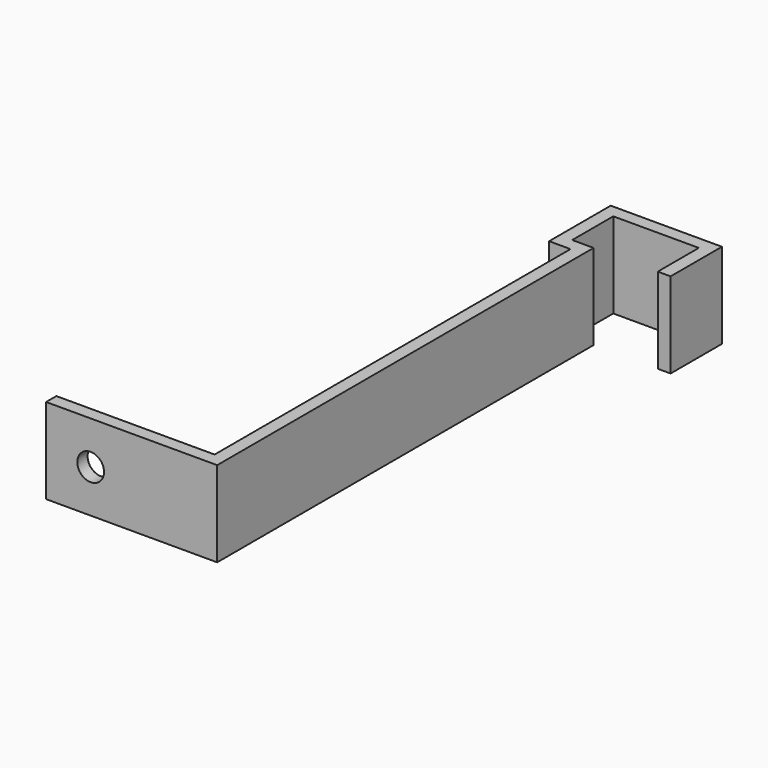
from build123d import *

# Parameters (mm, degrees)
F0_W     = 20
F0_H     = 3
F0_W_2   = 3
F0_H_2   = 12
F0_H_3   = 104
F0_W_3   = 37
F1_DEPTH = 20
F2_R     = 3.125
F3_DEPTH = 3.001


with BuildPart() as f1:
    # F0 (on Top) → F1 (new body)
    with BuildSketch(Plane.XY):
        Polygon((3, 38.470506), (0, 38.470506), (0, 35.470506), (0, 23.470506), (3, 23.470506), align=None)
        with Locations((-10, 36.970506)):
            Rectangle(F0_W, F0_H)
        with Locations((-21.5, 36.970506)):
            Rectangle(F0_W_2, F0_H)
        with Locations((-21.5, 29.470506)):
            Rectangle(F0_W_2, F0_H_2)
        Polygon((-18, 23.470506), (-20, 23.470506), (-23, 23.470506), (-23, 20.470506), (-18, 20.470506), align=None)
        with Locations((-16.5, 21.970506)):
            Rectangle(F0_W_2, F0_H)
        with Locations((-16.5, -31.529494)):
            Rectangle(F0_W_2, F0_H_3)
        with Locations((-16.5, -85.029494)):
            Rectangle(F0_W_2, F0_H)
        with Locations((-36.5, -85.029494)):
            Rectangle(F0_W_3, F0_H)
    extrude(amount=F1_DEPTH)

    # F2 (on face) → F3 (cut, through all)
    with BuildSketch(Plane(origin=(0, -83.529494, 0), x_dir=(-1, 0, 0), z_dir=(0, 1, 0))):
        with Locations((44.577796, 10)):
            Circle(F2_R)
    extrude(amount=-F3_DEPTH, mode=Mode.SUBTRACT)


solid = f1.part
